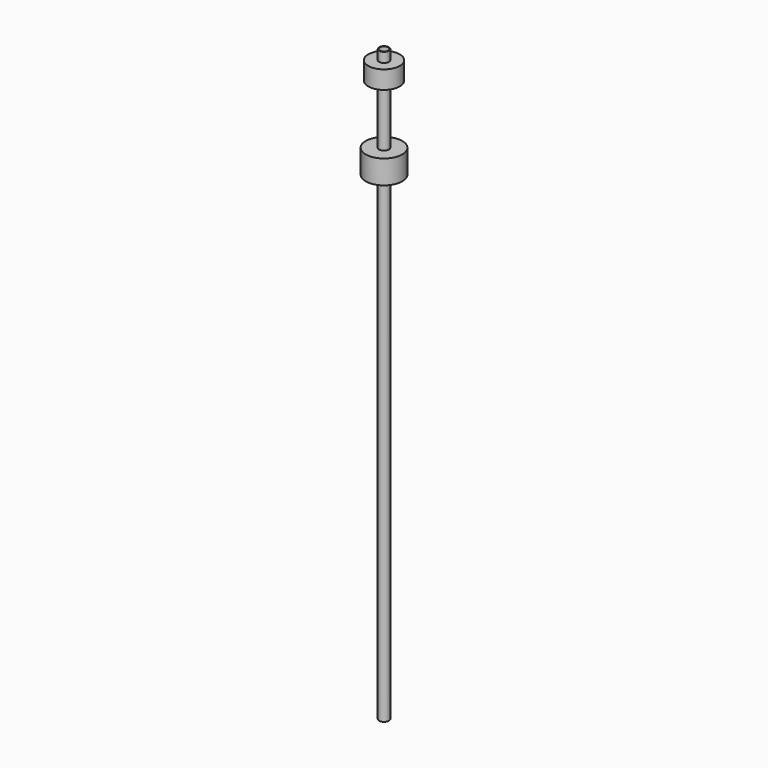
from build123d import *

# Parameters (mm, degrees)
F2_R      = 25.004983
F3_DEPTH  = 1500
F4_T      = -3
F6_R      = 92.954893
F7_DEPTH  = 120.5
F9_R      = 80
F10_DEPTH = 92


with BuildPart() as f3:
    # F2 (on Top) → F3 (new body, symmetric)
    with BuildSketch(Plane.XY):
        Circle(F2_R)
    extrude(amount=F3_DEPTH, both=True)

    # F4
    f4_openings = [f3.faces().sort_by_distance(p)[0] for p in [
        (0, 0, 1500),
        (0, 0, -1500),
    ]]
    offset(amount=F4_T, openings=f4_openings)


with BuildPart() as f7:
    # F6 (on offset) → F7 (new body)
    with BuildSketch(Plane.XY.offset(937.5)):
        Circle(F6_R)
    extrude(amount=F7_DEPTH)


with BuildPart() as f10:
    # F9 (on offset) → F10 (new body)
    with BuildSketch(Plane.XY.offset(1358.2)):
        Circle(F9_R)
    extrude(amount=F10_DEPTH)


solid = Compound([f3.part, f7.part, f10.part])
